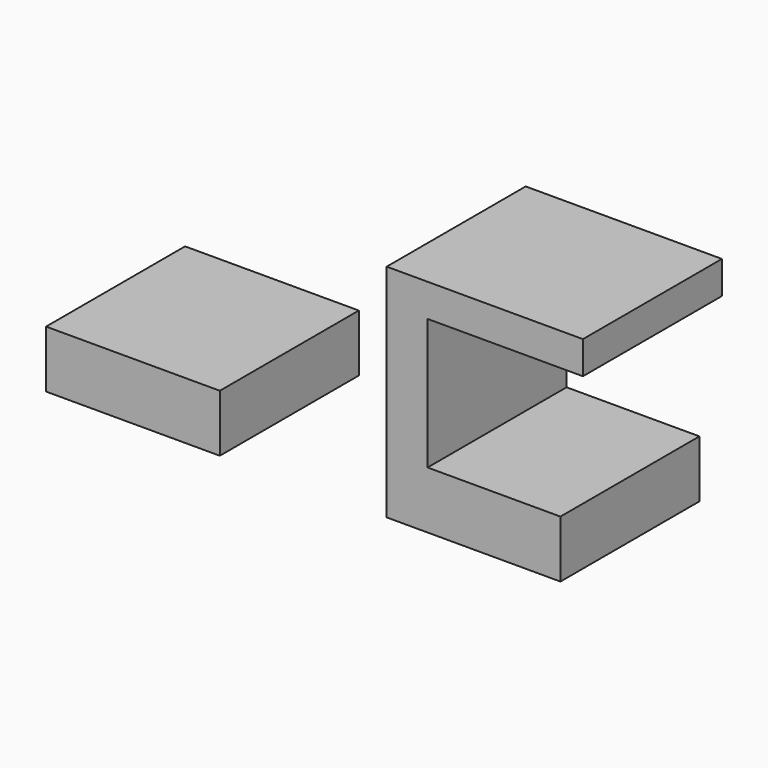
from build123d import *

# Parameters (mm, degrees)
F0_W     = 21.25
F0_H     = 7
F1_DEPTH = 21.25
F2_W     = 5
F2_H     = 21.25
F3_DEPTH = 20
F4_W     = 19
F4_H     = 21.25
F5_DEPTH = 4
F6_W     = 21.25
F6_H     = 7
F7_DEPTH = 21.25


with BuildPart() as f1:
    # F0 (on Front) → F1 (new body)
    with BuildSketch(Plane.XZ):
        with Locations((10.625, 3.5)):
            Rectangle(F0_W, F0_H)
    extrude(amount=F1_DEPTH)

    # F2 (on face) → F3 (join)
    with BuildSketch(Plane.XY.offset(7)):
        with Locations((2.5, -10.625)):
            Rectangle(F2_W, F2_H)
    extrude(amount=F3_DEPTH)

    # F4 (on face) → F5 (join)
    with BuildSketch(Plane.XY.offset(27)):
        with Locations((14.5, -10.625)):
            Rectangle(F4_W, F4_H)
    extrude(amount=-F5_DEPTH)


with BuildPart() as f7:
    # F6 (on Front) → F7 (new body)
    with BuildSketch(Plane.XZ):
        with Locations((-31.032869, 3.5)):
            Rectangle(F6_W, F6_H)
    extrude(amount=F7_DEPTH)


solid = Compound([f1.part, f7.part])
